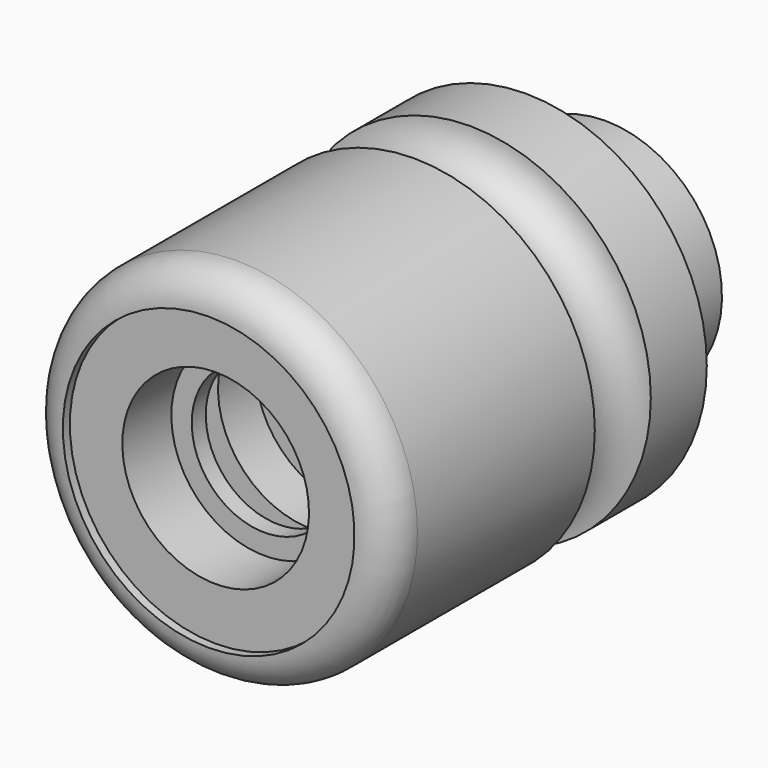
from build123d import *


with BuildPart() as f1:
    # F0 (on Right) → F1 (revolve)
    with BuildSketch(Plane.YZ):
        with BuildLine():
            Line((0, 25), (0, 0))
            Line((0, 0), (88, 0))
            Line((88, 0), (88, 16))
            Line((88, 16), (85, 16))
            Line((85, 16), (85, 20))
            Line((85, 20), (68, 20))
            Line((68, 20), (68, 31))
            Line((68, 31), (56, 31))
            ThreePointArc((56, 31), (50, 25), (44, 31))
            Line((44, 31), (6, 31))
            ThreePointArc((6, 31), (1.757359, 29.242641), (0, 25))
        make_face()
    revolve(axis=Axis((0, 43.101239, 0), (0, 1, 0)))

    # F2 (on Right) → F4 (revolve, cut)
    with BuildSketch(Plane.YZ):
        Polygon((0, 25), (0, 0), (88, 0), (88, 6), (30, 6), (30, 16), (22, 16), (22, 20.5), (15, 20.5), (15, 12.5), (12, 12.5), (12, 16), (1.5, 16), (1.5, 25), align=None)
    revolve(axis=Axis((0, 40.336952, 0), (0, 1, 0)), mode=Mode.SUBTRACT)


solid = f1.part
